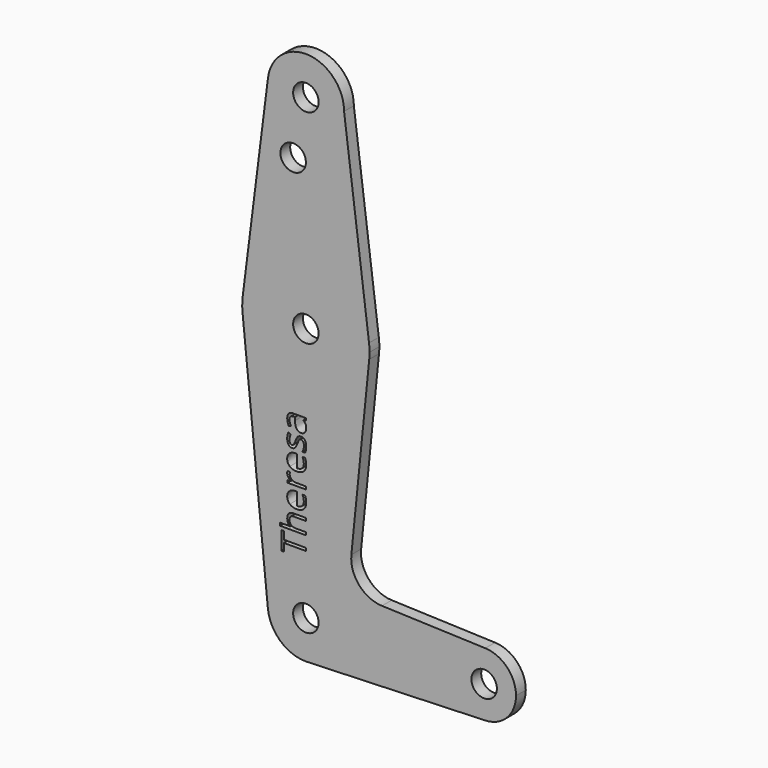
from build123d import *

# Parameters (mm, degrees)
F0_R     = 3.175
F1_DEPTH = 3.048


with BuildPart() as f1:
    # F0 (on Front) → F1 (new body)
    with BuildSketch(Plane.XZ):
        with BuildLine():
            Line((15.7474569047, 65.5082893304), (9.525, 114.3))
            ThreePointArc((9.525, 114.3), (-0.596483242, 104.7936951058), (-9.4502929642, 115.490625))
            Line((-9.4502929642, 115.490625), (-15.7504882737, 65.484375))
            ThreePointArc((-15.7504882737, 65.484375), (-0.0120528461, 79.3749954245), (15.7474569047, 65.5082893304))
        make_face()
        with Locations((-3.175, 100.0252)):
            Circle(F0_R, mode=Mode.SUBTRACT)
        with BuildLine():
            ThreePointArc((15.875, 63.5), (15.8430821396, 64.5061676396), (15.7474569047, 65.5082893304))
            ThreePointArc((15.7474569047, 65.5082893304), (-0.0120528461, 79.3749954245), (-15.7504882737, 65.484375))
            ThreePointArc((-15.7504882737, 65.484375), (-15.8737438155, 63.6997054867), (-15.7954255641, 61.9125))
            ThreePointArc((-15.7954255641, 61.9125), (0, 47.625), (15.7954255641, 61.9125))
            ThreePointArc((15.7954255641, 61.9125), (15.8550939106, 62.7052534459), (15.875, 63.5))
        make_face()
        with Locations((0, 63.5)):
            Circle(F0_R, mode=Mode.SUBTRACT)
        with BuildLine():
            ThreePointArc((15.7954255641, 61.9125), (0, 47.625), (-15.7954255641, 61.9125))
            Line((-15.7954255641, 61.9125), (-9.4772553384, -0.9525))
            ThreePointArc((-9.4772553384, -0.9525), (-0.4768479324, 9.5130563464), (9.525, 0))
            ThreePointArc((9.525, 0), (6.9705567315, -6.4912990883), (0.6773435479, -9.500885786))
            Line((0.6773435479, -9.500885786), (44.7324052746, -7.9324746146))
            ThreePointArc((44.7324052746, -7.9324746146), (36.5125000183, 0.0005387766), (44.7334821429, 7.9324362036))
            Line((44.7334821429, 7.9324362036), (18.9676000005, 8.8532337108))
            ThreePointArc((18.9676000005, 8.8532337108), (13.2611998974, 11.5713591498), (11.3411865923, 17.5933818124))
            Line((11.3411865923, 17.5933818124), (15.7954255641, 61.9125))
        make_face()
        Polygon((-5.471743154, 15.4224541005), (0, 15.4224541005), (0, 14.7132777239), (-5.471743154, 14.7132777239), (-5.471743154, 12.780738709), (-6.1021221554, 12.780738709), (-6.1021221554, 17.3549931153), (-5.471743154, 17.3549931153), align=None, mode=Mode.SUBTRACT)
        with BuildLine():
            Line((0, 21.9933538607), (0, 21.3002040689))
            Line((0, 21.3002040689), (-2.9595759896, 21.3002040689))
            add(Edge.make_bspline(
                [(-2.9595759896, 21.3002040689), (-3.5178353594, 21.3002040689), (-3.7936261725, 21.0457820355)],
                knots=[0, 0, 0, 1, 1, 1], degree=2))
            add(Edge.make_bspline(
                [(-3.7936261725, 21.0457820355), (-4.0694169857, 20.7913600021), (-4.0694169857, 20.2477916683)],
                knots=[0, 0, 0, 1, 1, 1], degree=2))
            add(Edge.make_bspline(
                [(-4.0694169857, 20.2477916683), (-4.0694169857, 19.5265953531), (-3.6767656585, 19.1947114933)],
                knots=[0, 0, 0, 1, 1, 1], degree=2))
            add(Edge.make_bspline(
                [(-3.6767656585, 19.1947114933), (-3.2841143314, 18.8628276335), (-2.3919677786, 18.8628276335)],
                knots=[0, 0, 0, 1, 1, 1], degree=2))
            Line((-2.3919677786, 18.8628276335), (0, 18.8628276335))
            Line((0, 18.8628276335), (0, 18.1696778417))
            Line((0, 18.1696778417), (-6.4947734825, 18.1696778417))
            Line((-6.4947734825, 18.1696778417), (-6.4947734825, 18.8628276335))
            Line((-6.4947734825, 18.8628276335), (-4.5288457494, 18.8628276335))
            add(Edge.make_bspline(
                [(-4.5288457494, 18.8628276335), (-4.1735897867, 18.8628276335), (-3.9398687587, 18.8294389152)],
                knots=[0, 0, 0, 1, 1, 1], degree=2))
            Line((-3.9398687587, 18.8294389152), (-3.9398687587, 18.8708409258))
            add(Edge.make_bspline(
                [(-3.9398687587, 18.8708409258), (-4.2697492954, 19.0751798818), (-4.4593972153, 19.4531401729)],
                knots=[0, 0, 0, 1, 1, 1], degree=2))
            add(Edge.make_bspline(
                [(-4.4593972153, 19.4531401729), (-4.6490451352, 19.831100464), (-4.6490451352, 20.3145691049)],
                knots=[0, 0, 0, 1, 1, 1], degree=2))
            add(Edge.make_bspline(
                [(-4.6490451352, 20.3145691049), (-4.6490451352, 21.1532937084), (-4.2503838388, 21.5733237846)],
                knots=[0, 0, 0, 1, 1, 1], degree=2))
            add(Edge.make_bspline(
                [(-4.2503838388, 21.5733237846), (-3.8517225424, 21.9933538607), (-2.9836158667, 21.9933538607)],
                knots=[0, 0, 0, 1, 1, 1], degree=2))
            Line((-2.9836158667, 21.9933538607), (0, 21.9933538607))
        make_face(mode=Mode.SUBTRACT)
        with BuildLine():
            add(Edge.make_bspline(
                [(0.014691036, 26.1388971241), (0.0841395701, 25.8116876848), (0.0841395701, 25.3482522749)],
                knots=[0, 0, 0, 1, 1, 1], degree=2))
            add(Edge.make_bspline(
                [(0.0841395701, 25.3482522749), (0.0841395701, 24.3345707875), (-0.5342194927, 23.7475971199)],
                knots=[0, 0, 0, 1, 1, 1], degree=2))
            add(Edge.make_bspline(
                [(-0.5342194927, 23.7475971199), (-1.1525785555, 23.1606234522), (-2.2490640643, 23.1606234522)],
                knots=[0, 0, 0, 1, 1, 1], degree=2))
            add(Edge.make_bspline(
                [(-2.2490640643, 23.1606234522), (-3.3562339629, 23.1606234522), (-4.0073139696, 23.7055273348)],
                knots=[0, 0, 0, 1, 1, 1], degree=2))
            add(Edge.make_bspline(
                [(-4.0073139696, 23.7055273348), (-4.6583939764, 24.2504312174), (-4.6583939764, 25.1692887448)],
                knots=[0, 0, 0, 1, 1, 1], degree=2))
            add(Edge.make_bspline(
                [(-4.6583939764, 25.1692887448), (-4.6583939764, 26.0280465793), (-4.0927890885, 26.5288773537)],
                knots=[0, 0, 0, 1, 1, 1], degree=2))
            add(Edge.make_bspline(
                [(-4.0927890885, 26.5288773537), (-3.5271842006, 27.0297081281), (-2.6003133807, 27.0297081281)],
                knots=[0, 0, 0, 1, 1, 1], degree=2))
            Line((-2.6003133807, 27.0297081281), (-2.1622533967, 27.0297081281))
            Line((-2.1622533967, 27.0297081281), (-2.1622533967, 23.8791486699))
            add(Edge.make_bspline(
                [(-2.1622533967, 23.8791486699), (-1.3569175115, 23.9005174496), (-0.9395585328, 24.2864910331)],
                knots=[0, 0, 0, 1, 1, 1], degree=2))
            add(Edge.make_bspline(
                [(-0.9395585328, 24.2864910331), (-0.5221995541, 24.6724646166), (-0.5221995541, 25.3736277008)],
                knots=[0, 0, 0, 1, 1, 1], degree=2))
            add(Edge.make_bspline(
                [(-0.5221995541, 25.3736277008), (-0.5221995541, 26.1121861494), (-0.8307113112, 26.8333824646)],
                knots=[0, 0, 0, 1, 1, 1], degree=2))
            Line((-0.8307113112, 26.8333824646), (-0.2123522483, 26.8333824646))
            add(Edge.make_bspline(
                [(-0.2123522483, 26.8333824646), (-0.054757498, 26.4661065633), (0.014691036, 26.1388971241)],
                knots=[0, 0, 0, 1, 1, 1], degree=2))
        make_face(mode=Mode.SUBTRACT)
        with BuildLine():
            add(Edge.make_bspline(
                [(-4.4159918815, 29.509822123), (-4.6583939764, 29.8690847318), (-4.6583939764, 30.2991314235)],
                knots=[0, 0, 0, 1, 1, 1], degree=2))
            add(Edge.make_bspline(
                [(-4.6583939764, 30.2991314235), (-4.6583939764, 30.6036365343), (-4.6076431246, 30.8453708548)],
                knots=[0, 0, 0, 1, 1, 1], degree=2))
            Line((-4.6076431246, 30.8453708548), (-3.9652441846, 30.7492113461))
            add(Edge.make_bspline(
                [(-3.9652441846, 30.7492113461), (-4.028014975, 30.4660750149), (-4.028014975, 30.2483805717)],
                knots=[0, 0, 0, 1, 1, 1], degree=2))
            add(Edge.make_bspline(
                [(-4.028014975, 30.2483805717), (-4.028014975, 29.6927922993), (-3.577267278, 29.2988054234)],
                knots=[0, 0, 0, 1, 1, 1], degree=2))
            add(Edge.make_bspline(
                [(-3.577267278, 29.2988054234), (-3.126519581, 28.9048185475), (-2.454738569, 28.9048185475)],
                knots=[0, 0, 0, 1, 1, 1], degree=2))
            Line((-2.454738569, 28.9048185475), (0, 28.9048185475))
            Line((0, 28.9048185475), (0, 28.2116687557))
            Line((0, 28.2116687557), (-4.5742544063, 28.2116687557))
            Line((-4.5742544063, 28.2116687557), (-4.5742544063, 28.7832836129))
            Line((-4.5742544063, 28.7832836129), (-3.7275165103, 28.8634165368))
            Line((-3.7275165103, 28.8634165368), (-3.7275165103, 28.8968052551))
            add(Edge.make_bspline(
                [(-3.7275165103, 28.8968052551), (-4.1735897867, 29.1505595142), (-4.4159918815, 29.509822123)],
                knots=[0, 0, 0, 1, 1, 1], degree=2))
        make_face(mode=Mode.SUBTRACT)
        with BuildLine():
            add(Edge.make_bspline(
                [(0.014691036, 34.4246414559), (0.0841395701, 34.0974320166), (0.0841395701, 33.6339966067)],
                knots=[0, 0, 0, 1, 1, 1], degree=2))
            add(Edge.make_bspline(
                [(0.0841395701, 33.6339966067), (0.0841395701, 32.6203151193), (-0.5342194927, 32.0333414517)],
                knots=[0, 0, 0, 1, 1, 1], degree=2))
            add(Edge.make_bspline(
                [(-0.5342194927, 32.0333414517), (-1.1525785555, 31.446367784), (-2.2490640643, 31.446367784)],
                knots=[0, 0, 0, 1, 1, 1], degree=2))
            add(Edge.make_bspline(
                [(-2.2490640643, 31.446367784), (-3.3562339629, 31.446367784), (-4.0073139696, 31.9912716666)],
                knots=[0, 0, 0, 1, 1, 1], degree=2))
            add(Edge.make_bspline(
                [(-4.0073139696, 31.9912716666), (-4.6583939764, 32.5361755492), (-4.6583939764, 33.4550330766)],
                knots=[0, 0, 0, 1, 1, 1], degree=2))
            add(Edge.make_bspline(
                [(-4.6583939764, 33.4550330766), (-4.6583939764, 34.3137909111), (-4.0927890885, 34.8146216855)],
                knots=[0, 0, 0, 1, 1, 1], degree=2))
            add(Edge.make_bspline(
                [(-4.0927890885, 34.8146216855), (-3.5271842006, 35.3154524599), (-2.6003133807, 35.3154524599)],
                knots=[0, 0, 0, 1, 1, 1], degree=2))
            Line((-2.6003133807, 35.3154524599), (-2.1622533967, 35.3154524599))
            Line((-2.1622533967, 35.3154524599), (-2.1622533967, 32.1648930017))
            add(Edge.make_bspline(
                [(-2.1622533967, 32.1648930017), (-1.3569175115, 32.1862617814), (-0.9395585328, 32.5722353649)],
                knots=[0, 0, 0, 1, 1, 1], degree=2))
            add(Edge.make_bspline(
                [(-0.9395585328, 32.5722353649), (-0.5221995541, 32.9582089484), (-0.5221995541, 33.6593720326)],
                knots=[0, 0, 0, 1, 1, 1], degree=2))
            add(Edge.make_bspline(
                [(-0.5221995541, 33.6593720326), (-0.5221995541, 34.3979304812), (-0.8307113112, 35.1191267964)],
                knots=[0, 0, 0, 1, 1, 1], degree=2))
            Line((-0.8307113112, 35.1191267964), (-0.2123522483, 35.1191267964))
            add(Edge.make_bspline(
                [(-0.2123522483, 35.1191267964), (-0.054757498, 34.7518508951), (0.014691036, 34.4246414559)],
                knots=[0, 0, 0, 1, 1, 1], degree=2))
        make_face(mode=Mode.SUBTRACT)
        with BuildLine():
            add(Edge.make_bspline(
                [(-2.0033230976, 39.1618328074), (-1.702824633, 39.447640236), (-1.2474025155, 39.447640236)],
                knots=[0, 0, 0, 1, 1, 1], degree=2))
            add(Edge.make_bspline(
                [(-1.2474025155, 39.447640236), (-0.6090102217, 39.447640236), (-0.2624353258, 38.9721848875)],
                knots=[0, 0, 0, 1, 1, 1], degree=2))
            add(Edge.make_bspline(
                [(-0.2624353258, 38.9721848875), (0.0841395701, 38.496729539), (0.0841395701, 37.6366361557)],
                knots=[0, 0, 0, 1, 1, 1], degree=2))
            add(Edge.make_bspline(
                [(0.0841395701, 37.6366361557), (0.0841395701, 36.7271274694), (-0.204338956, 36.2182834026)],
                knots=[0, 0, 0, 1, 1, 1], degree=2))
            Line((-0.204338956, 36.2182834026), (-0.8467378959, 36.2182834026))
            add(Edge.make_bspline(
                [(-0.8467378959, 36.2182834026), (-0.6797943045, 36.5481639394), (-0.5843025701, 36.9254564561)],
                knots=[0, 0, 0, 1, 1, 1], degree=2))
            add(Edge.make_bspline(
                [(-0.5843025701, 36.9254564561), (-0.4888108358, 37.3027489728), (-0.4888108358, 37.6539982892)],
                knots=[0, 0, 0, 1, 1, 1], degree=2))
            add(Edge.make_bspline(
                [(-0.4888108358, 37.6539982892), (-0.4888108358, 38.1962310743), (-0.6617643966, 38.4880484722)],
                knots=[0, 0, 0, 1, 1, 1], degree=2))
            add(Edge.make_bspline(
                [(-0.6617643966, 38.4880484722), (-0.8347179573, 38.7798658701), (-1.18997392, 38.7798658701)],
                knots=[0, 0, 0, 1, 1, 1], degree=2))
            add(Edge.make_bspline(
                [(-1.18997392, 38.7798658701), (-1.4570836663, 38.7798658701), (-1.6467315863, 38.5488159395)],
                knots=[0, 0, 0, 1, 1, 1], degree=2))
            add(Edge.make_bspline(
                [(-1.6467315863, 38.5488159395), (-1.8363795062, 38.3177660089), (-2.0954759601, 37.6446494481)],
                knots=[0, 0, 0, 1, 1, 1], degree=2))
            add(Edge.make_bspline(
                [(-2.0954759601, 37.6446494481), (-2.3332036344, 37.0062571543), (-2.5108316157, 36.7371440849)],
                knots=[0, 0, 0, 1, 1, 1], degree=2))
            add(Edge.make_bspline(
                [(-2.5108316157, 36.7371440849), (-2.688459597, 36.4680310154), (-2.9134995583, 36.3364794654)],
                knots=[0, 0, 0, 1, 1, 1], degree=2))
            add(Edge.make_bspline(
                [(-2.9134995583, 36.3364794654), (-3.1385395196, 36.2049279153), (-3.4510579229, 36.2049279153)],
                knots=[0, 0, 0, 1, 1, 1], degree=2))
            add(Edge.make_bspline(
                [(-3.4510579229, 36.2049279153), (-4.0106528415, 36.2049279153), (-4.3345234089, 36.6603500328)],
                knots=[0, 0, 0, 1, 1, 1], degree=2))
            add(Edge.make_bspline(
                [(-4.3345234089, 36.6603500328), (-4.6583939764, 37.1157721503), (-4.6583939764, 37.9077525483)],
                knots=[0, 0, 0, 1, 1, 1], degree=2))
            add(Edge.make_bspline(
                [(-4.6583939764, 37.9077525483), (-4.6583939764, 38.6463109969), (-4.3578955117, 39.352816276)],
                knots=[0, 0, 0, 1, 1, 1], degree=2))
            Line((-4.3578955117, 39.352816276), (-3.7942939469, 39.1057397607))
            add(Edge.make_bspline(
                [(-3.7942939469, 39.1057397607), (-4.077430278, 38.4179321638), (-4.077430278, 37.8583372452)],
                knots=[0, 0, 0, 1, 1, 1], degree=2))
            add(Edge.make_bspline(
                [(-4.077430278, 37.8583372452), (-4.077430278, 37.3655197632), (-3.9231743995, 37.115104376)],
                knots=[0, 0, 0, 1, 1, 1], degree=2))
            add(Edge.make_bspline(
                [(-3.9231743995, 37.115104376), (-3.768918521, 36.8646889888), (-3.4978021285, 36.8646889888)],
                knots=[0, 0, 0, 1, 1, 1], degree=2))
            add(Edge.make_bspline(
                [(-3.4978021285, 36.8646889888), (-3.3134964035, 36.8646889888), (-3.1846159509, 36.9588451744)],
                knots=[0, 0, 0, 1, 1, 1], degree=2))
            add(Edge.make_bspline(
                [(-3.1846159509, 36.9588451744), (-3.0557354983, 37.05300136), (-2.9388749842, 37.2613469621)],
                knots=[0, 0, 0, 1, 1, 1], degree=2))
            add(Edge.make_bspline(
                [(-2.9388749842, 37.2613469621), (-2.8220144702, 37.4696925643), (-2.6003133807, 38.0626762012)],
                knots=[0, 0, 0, 1, 1, 1], degree=2))
            add(Edge.make_bspline(
                [(-2.6003133807, 38.0626762012), (-2.3038215623, 38.8760253788), (-2.0033230976, 39.1618328074)],
                knots=[0, 0, 0, 1, 1, 1], degree=2))
        make_face(mode=Mode.SUBTRACT)
        with BuildLine():
            Line((0, 43.9016952564), (0, 43.3875089947))
            Line((0, 43.3875089947), (-0.6517477811, 43.2499474753))
            Line((-0.6517477811, 43.2499474753), (-0.6517477811, 43.216558757))
            add(Edge.make_bspline(
                [(-0.6517477811, 43.216558757), (-0.2217010895, 42.8746582817), (-0.0687807597, 42.5347611294)],
                knots=[0, 0, 0, 1, 1, 1], degree=2))
            add(Edge.make_bspline(
                [(-0.0687807597, 42.5347611294), (0.0841395701, 42.1948639772), (0.0841395701, 41.6846843617)],
                knots=[0, 0, 0, 1, 1, 1], degree=2))
            add(Edge.make_bspline(
                [(0.0841395701, 41.6846843617), (0.0841395701, 41.0048900572), (-0.2671097464, 40.6189164737)],
                knots=[0, 0, 0, 1, 1, 1], degree=2))
            add(Edge.make_bspline(
                [(-0.2671097464, 40.6189164737), (-0.6183590628, 40.2329428903), (-1.264764649, 40.2329428903)],
                knots=[0, 0, 0, 1, 1, 1], degree=2))
            add(Edge.make_bspline(
                [(-1.264764649, 40.2329428903), (-2.6497286838, 40.2329428903), (-2.7165061204, 42.4486182362)],
                knots=[0, 0, 0, 1, 1, 1], degree=2))
            Line((-2.7165061204, 42.4486182362), (-2.7418815463, 43.2245720494))
            Line((-2.7418815463, 43.2245720494), (-3.0263534262, 43.2245720494))
            add(Edge.make_bspline(
                [(-3.0263534262, 43.2245720494), (-3.5645795651, 43.2245720494), (-3.8210049215, 42.9935221188)],
                knots=[0, 0, 0, 1, 1, 1], degree=2))
            add(Edge.make_bspline(
                [(-3.8210049215, 42.9935221188), (-4.077430278, 42.7624721882), (-4.077430278, 42.2522925727)],
                knots=[0, 0, 0, 1, 1, 1], degree=2))
            add(Edge.make_bspline(
                [(-4.077430278, 42.2522925727), (-4.077430278, 41.6806777155), (-3.7275165103, 40.9594814003)],
                knots=[0, 0, 0, 1, 1, 1], degree=2))
            Line((-3.7275165103, 40.9594814003), (-4.2577293568, 40.7457936033))
            add(Edge.make_bspline(
                [(-4.2577293568, 40.7457936033), (-4.4406995331, 41.0836874324), (-4.5448723342, 41.486355375)],
                knots=[0, 0, 0, 1, 1, 1], degree=2))
            add(Edge.make_bspline(
                [(-4.5448723342, 41.486355375), (-4.6490451352, 41.8890233176), (-4.6490451352, 42.2950301321)],
                knots=[0, 0, 0, 1, 1, 1], degree=2))
            add(Edge.make_bspline(
                [(-4.6490451352, 42.2950301321), (-4.6490451352, 43.1123859559), (-4.2864436546, 43.5070406062)],
                knots=[0, 0, 0, 1, 1, 1], degree=2))
            add(Edge.make_bspline(
                [(-4.2864436546, 43.5070406062), (-3.9238421739, 43.9016952564), (-3.1225129348, 43.9016952564)],
                knots=[0, 0, 0, 1, 1, 1], degree=2))
            Line((-3.1225129348, 43.9016952564), (0, 43.9016952564))
        make_face(mode=Mode.SUBTRACT)
        with BuildLine():
            ThreePointArc((9.525, 0), (-0.4768479324, 9.5130563464), (-9.4772553384, -0.9525))
            ThreePointArc((-9.4772553384, -0.9525), (-6.3895642457, -7.063929059), (0, -9.525))
            Line((0, -9.525), (0.6773435479, -9.500885786))
            ThreePointArc((0.6773435479, -9.500885786), (6.9705567315, -6.4912990883), (9.525, 0))
        make_face()
        Circle(F0_R, mode=Mode.SUBTRACT)
        with BuildLine():
            ThreePointArc((52.3875, 0), (50.1620069047, 5.5115227815), (44.7334821429, 7.9324362036))
            ThreePointArc((44.7334821429, 7.9324362036), (36.5125000183, 0.0005387766), (44.7324052746, -7.9324746146))
            ThreePointArc((44.7324052746, -7.9324746146), (50.1616327839, -5.5119104847), (52.3875, 0))
        make_face()
        with Locations((44.45, 0)):
            Circle(F0_R, mode=Mode.SUBTRACT)
        with BuildLine():
            ThreePointArc((-9.4502929642, 115.490625), (-0.596483242, 104.7936951058), (9.525, 114.3))
            ThreePointArc((9.525, 114.3), (0.596483242, 123.8063048942), (-9.4502929642, 115.490625))
        make_face()
        with Locations((0, 114.3)):
            Circle(F0_R, mode=Mode.SUBTRACT)
    extrude(amount=F1_DEPTH)


solid = f1.part
